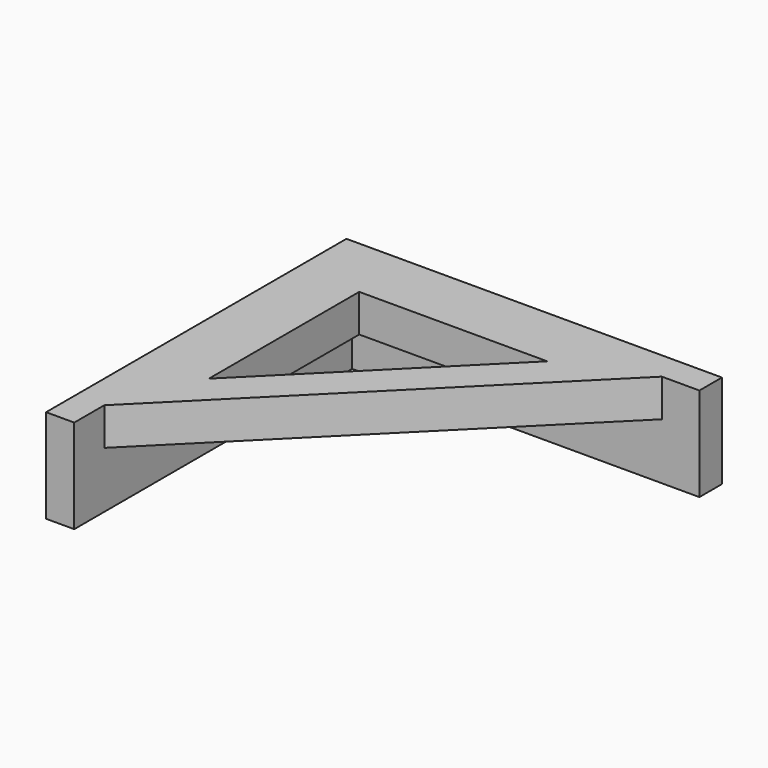
from build123d import *

# Parameters (mm, degrees)
F0_W     = 46.99
F0_H     = 3.81
F1_DEPTH = 12.7
F3_DEPTH = 5.08


with BuildPart() as f1:
    # F0 (on Top) → F1 (new body)
    with BuildSketch(Plane.XY):
        Polygon((0, 50.8), (0, 0), (3.81, 0), (3.81, 46.99), (3.81, 50.8), align=None)
        with Locations((27.305, 48.895)):
            Rectangle(F0_W, F0_H)
    extrude(amount=F1_DEPTH)

    # F2 (on face) → F3 (join)
    with BuildSketch(Plane.XY.offset(12.7)):
        Polygon((45.72, 46.99), (3.81, 46.99), (3.81, 5.08), align=None)
        Polygon((8.6359983861, 42.1640016139), (34.0690092442, 42.1640016139), (8.6359983861, 16.7309907558), align=None, mode=Mode.SUBTRACT)
    extrude(amount=-F3_DEPTH)


solid = f1.part
